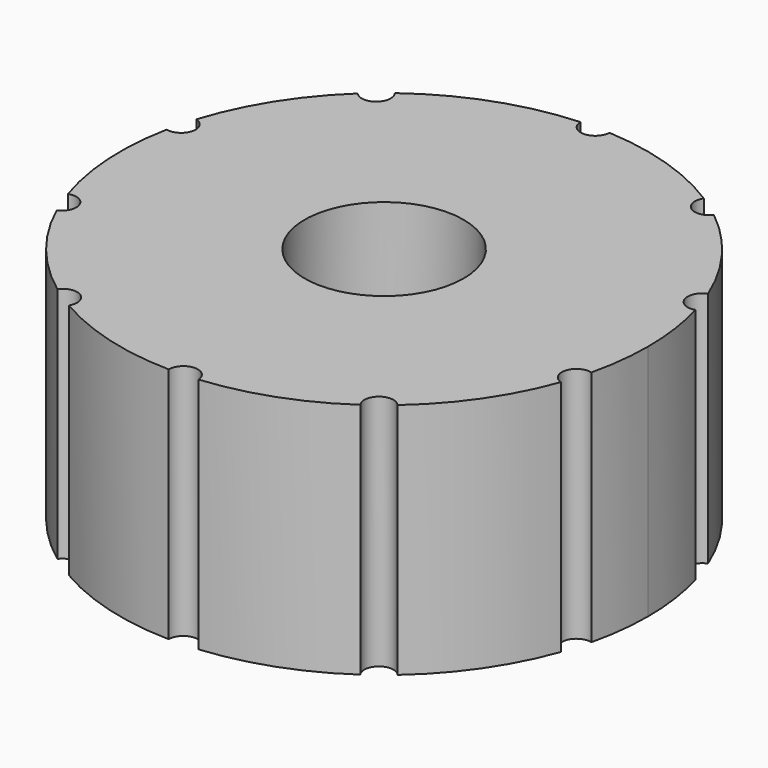
from build123d import *

# Parameters (mm, degrees)
F0_R     = 67.691
F1_DEPTH = 98.298
F2_R     = 76.523192
F3_DEPTH = 228.6


with BuildPart() as f1:
    # F0 (on Top) → F1 (new body)
    with BuildSketch(Plane.XY):
        Polygon((20.642572, -144.15397), (135.162286, -54.199993), (114.519714, 89.953977), (-20.642572, 144.15397), (-135.162286, 54.199993), (-114.519714, -89.953977), align=None)
        Circle(F0_R, mode=Mode.SUBTRACT)
    extrude(amount=F1_DEPTH)

    # F2 (on Top) → F3 (join)
    with BuildSketch(Plane.XY):
        with BuildLine():
            ThreePointArc((246.963915, -59.370235), (252.234845, -29.892856), (254, 0))
            ThreePointArc((254, 0), (251.607755, 34.778404), (244.476083, 68.901703))
            ThreePointArc((244.476083, 68.901703), (227.114105, 77.709336), (235.441325, 95.306781))
            ThreePointArc((235.441325, 95.306781), (203.739291, 151.678282), (158.82823, 198.216027))
            ThreePointArc((158.82823, 198.216027), (139.581788, 195.285642), (136.12364, 214.444293))
            ThreePointArc((136.12364, 214.444293), (77.552803, 241.870963), (13.953987, 253.616416))
            ThreePointArc((13.953987, 253.616416), (0, 240.040742), (-13.953987, 253.616416))
            ThreePointArc((-13.953987, 253.616416), (-86.873116, 238.681926), (-152.332115, 203.250896))
            ThreePointArc((-152.332115, 203.250896), (-150.086276, 199.168943), (-149.308795, 194.575289))
            ThreePointArc((-149.308795, 194.575289), (-158.313913, 181.524718), (-173.710864, 185.311996))
            ThreePointArc((-173.710864, 185.311996), (-214.880552, 135.433926), (-242.118892, 76.77527))
            ThreePointArc((-242.118892, 76.77527), (-234.821293, 71.757087), (-232.011792, 63.358051))
            ThreePointArc((-232.011792, 63.358051), (-237.268803, 52.4433), (-249.080289, 49.749468))
            ThreePointArc((-249.080289, 49.749468), (-253.570272, -14.768787), (-241.620537, -78.329536))
            ThreePointArc((-241.620537, -78.329536), (-228.899573, -80.082867), (-222.993203, -91.485142))
            ThreePointArc((-222.993203, -91.485142), (-225.333207, -99.221668), (-231.568706, -104.364431))
            ThreePointArc((-231.568706, -104.364431), (-197.704688, -159.46428), (-151.022883, -204.225583))
            ThreePointArc((-151.022883, -204.225583), (-135.388346, -198.897355), (-125.616022, -212.213904))
            ThreePointArc((-125.616022, -212.213904), (-126.148708, -216.033334), (-127.706111, -219.561265))
            ThreePointArc((-127.706111, -219.561265), (-68.115844, -244.696203), (-4.109422, -253.966755))
            ThreePointArc((-4.109422, -253.966755), (9.307669, -239.86022), (23.777564, -252.884613))
            ThreePointArc((23.777564, -252.884613), (86.873116, -238.681926), (144.336425, -209.004776))
            ThreePointArc((144.336425, -209.004776), (147.049089, -189.726443), (166.394684, -191.908336))
            ThreePointArc((166.394684, -191.908336), (209.467451, -143.664146), (238.959818, -86.105781))
            ThreePointArc((238.959818, -86.105781), (229.956513, -68.844461), (246.963915, -59.370235))
        make_face()
        Circle(F2_R, mode=Mode.SUBTRACT)
    extrude(amount=F3_DEPTH)


solid = f1.part
